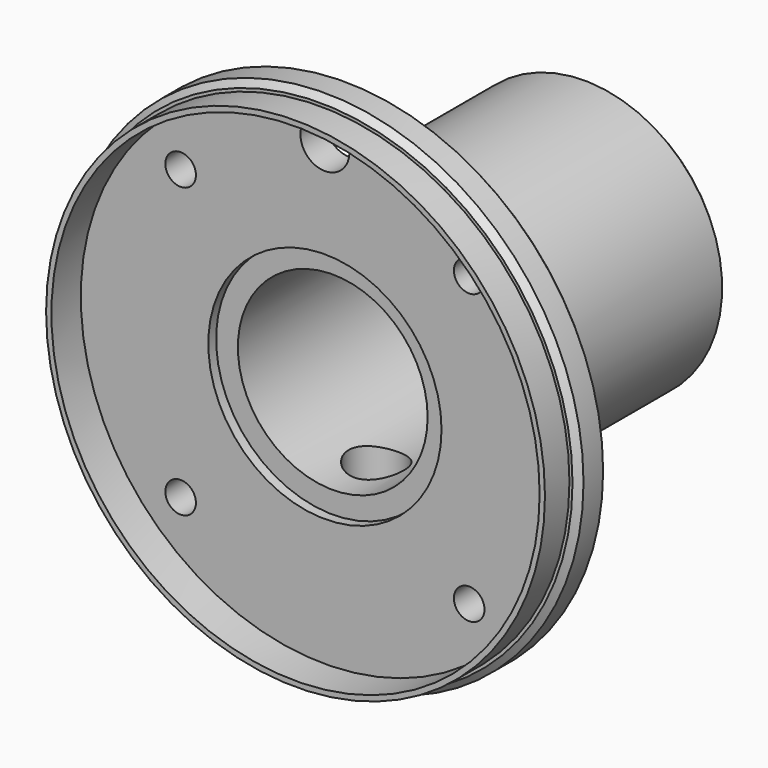
from build123d import *

# Parameters (mm, degrees)
F0_R      = 42.25
F1_DEPTH  = 11
F2_R      = 42.25
F2_R_2    = 40.75
F3_DEPTH  = 5
F4_R      = 39.88
F5_DEPTH  = 6
F6_R      = 2.5
F6_R_2    = 4
F7_DEPTH  = 5.001
F8_R      = 19.05
F9_DEPTH  = 1.6
F10_R     = 22.5
F11_DEPTH = 49
F12_R     = 15.5
F13_DEPTH = 52.401
F14_R     = 17.5
F14_R_2   = 15.5
F15_DEPTH = 14.6
F17_R     = 18.9
F18_DEPTH = 1.6
F19_SIZE  = 1
F20_R     = 4.5
F21_DEPTH = 42.251


with BuildPart() as f1:
    # F0 (on Front) → F1 (new body)
    with BuildSketch(Plane.XZ):
        Circle(F0_R)
    extrude(amount=F1_DEPTH)

    # F2 (on face) → F3 (cut)
    with BuildSketch(Plane.XZ.offset(11)):
        Circle(F2_R)
        Circle(F2_R_2, mode=Mode.SUBTRACT)
    extrude(amount=-F3_DEPTH, mode=Mode.SUBTRACT)

    # F4 (on face) → F5 (cut)
    with BuildSketch(Plane.XZ.offset(11)):
        Circle(F4_R)
    extrude(amount=-F5_DEPTH, mode=Mode.SUBTRACT)

    # F6 (on face) → F7 (cut, through all)
    with BuildSketch(Plane.XZ.offset(5)):
        with Locations((-23.57, 23.57)):
            Circle(F6_R)
        with Locations((23.57, 23.57)):
            Circle(F6_R)
        with Locations((23.57, -23.57)):
            Circle(F6_R)
        with Locations((-23.57, -23.57)):
            Circle(F6_R)
        with Locations((0, 35)):
            Circle(F6_R_2)
    extrude(amount=-F7_DEPTH, mode=Mode.SUBTRACT)

    # F8 (on face) → F9 (cut)
    with BuildSketch(Plane.XZ.offset(5)):
        Circle(F8_R)
    extrude(amount=-F9_DEPTH, mode=Mode.SUBTRACT)

    # F10 (on face) → F11 (join)
    with BuildSketch(Plane(origin=(0, 0, 0), x_dir=(-1, 0, 0), z_dir=(0, 1, 0))):
        Circle(F10_R)
    extrude(amount=F11_DEPTH)

    # F12 (on face) → F13 (cut, through all)
    with BuildSketch(Plane.XZ.offset(3.4)):
        Circle(F12_R)
    extrude(amount=-F13_DEPTH, mode=Mode.SUBTRACT)

    # F14 (on face) → F15 (cut)
    with BuildSketch(Plane(origin=(0, 49, 0), x_dir=(-1, 0, 0), z_dir=(0, 1, 0))):
        Circle(F14_R)
        Circle(F14_R_2, mode=Mode.SUBTRACT)
    extrude(amount=-F15_DEPTH, mode=Mode.SUBTRACT)

    # F17 (on offset) → F18 (cut)
    with BuildSketch(Plane(origin=(0, 46, 0), x_dir=(-1, 0, 0), z_dir=(0, 1, 0))):
        Circle(F17_R)
    extrude(amount=-F18_DEPTH, mode=Mode.SUBTRACT)

    # F19
    f19_edges = [f1.edges().sort_by_distance(p)[0] for p in [
        (22.5, 49, 0),
        (17.5, 49, 0),
        (-42.25, 0, 0),
        (-42.25, -6, 0),
    ]]
    chamfer(f19_edges, length=F19_SIZE)

    # F20 (on Top) → F21 (cut, through all)
    with BuildSketch(Plane.XY):
        with Locations((0, 5.5)):
            Circle(F20_R)
    extrude(amount=-F21_DEPTH, mode=Mode.SUBTRACT)


solid = f1.part
